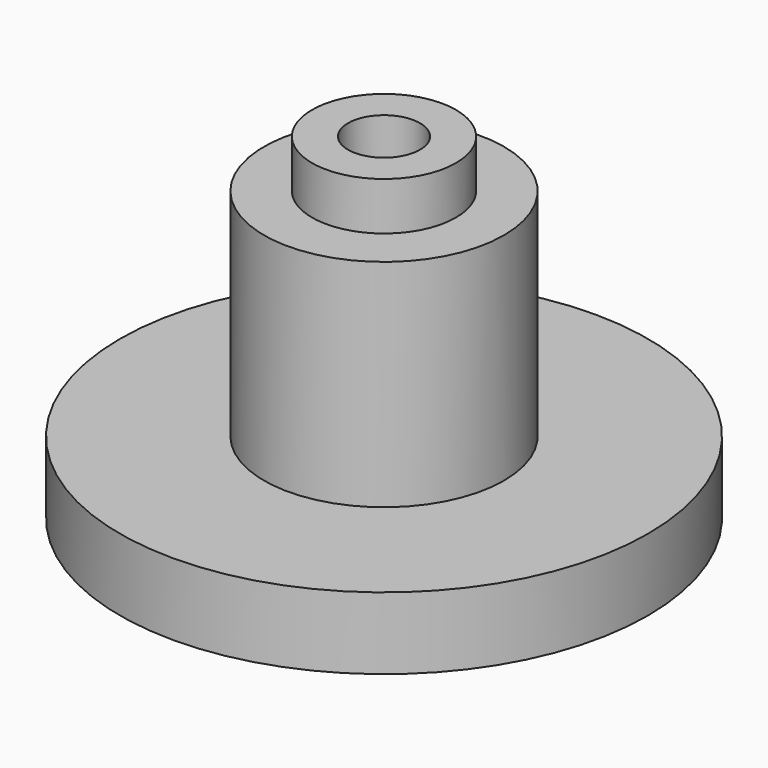
from build123d import *

# Parameters (mm, degrees)
F3_D = 19.05


with BuildPart() as f1:
    # F0 (on Front) → F1 (revolve)
    with BuildSketch(Plane.XZ):
        Polygon((0, 88.9), (0, 0), (69.85, 0), (69.85, 19.05), (31.75, 19.05), (31.75, 76.2), (19.05, 76.2), (19.05, 88.9), align=None)
    revolve(axis=Axis((0, 0, 44.45), (0, 0, 1)))

    # F3 (through all)
    with Locations(Plane.XY.offset(88.9)):
        with Locations((0, 0)):
            Hole(F3_D / 2)


solid = f1.part
